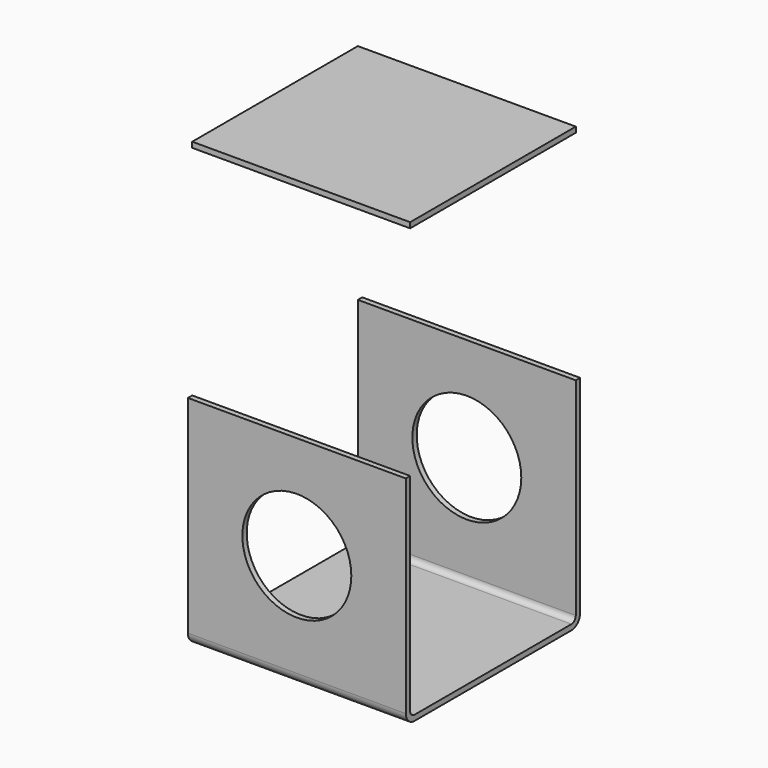
from build123d import *

# Parameters (mm, degrees)
F0_W     = 101.6
F0_H     = 101.6
F1_DEPTH = 101.6
F2_R     = 5.08
F3_T     = -2.54
F4_R     = 25.4
F5_DEPTH = 101.601
F8_DEPTH = 2.54


with BuildPart() as f1:
    # F0 (on Top) → F1 (new body)
    with BuildSketch(Plane.XY):
        Rectangle(F0_W, F0_H)
    extrude(amount=F1_DEPTH)

    # F2
    f2_edges = [f1.edges().sort_by_distance(p)[0] for p in [
        (0, -50.8, 0),
        (0, 50.8, 0),
    ]]
    fillet(f2_edges, radius=F2_R)

    # F3
    f3_openings = [f1.faces().sort_by_distance(p)[0] for p in [
        (0, 0, 101.6),
        (-50.8, 0, 50.853349),
        (50.8, 0, 50.853349),
    ]]
    offset(amount=F3_T, openings=f3_openings)

    # F4 (on face) → F5 (cut, through all)
    with BuildSketch(Plane.XZ.offset(50.8)):
        with Locations((0, 53.34)):
            Circle(F4_R)
    extrude(amount=-F5_DEPTH, mode=Mode.SUBTRACT)


with BuildPart() as f8:
    # F7 (on offset) → F8 (new body)
    with BuildSketch(Plane.XY.offset(203.2)):
        Polygon((-50.8, 48.26), (-50.8, 45.72), (-50.8, -45.72), (-50.8, -48.26), (50.8, -48.26), (50.8, -45.72), (50.8, 45.72), (50.8, 48.26), align=None)
    extrude(amount=F8_DEPTH)


solid = Compound([f1.part, f8.part])
